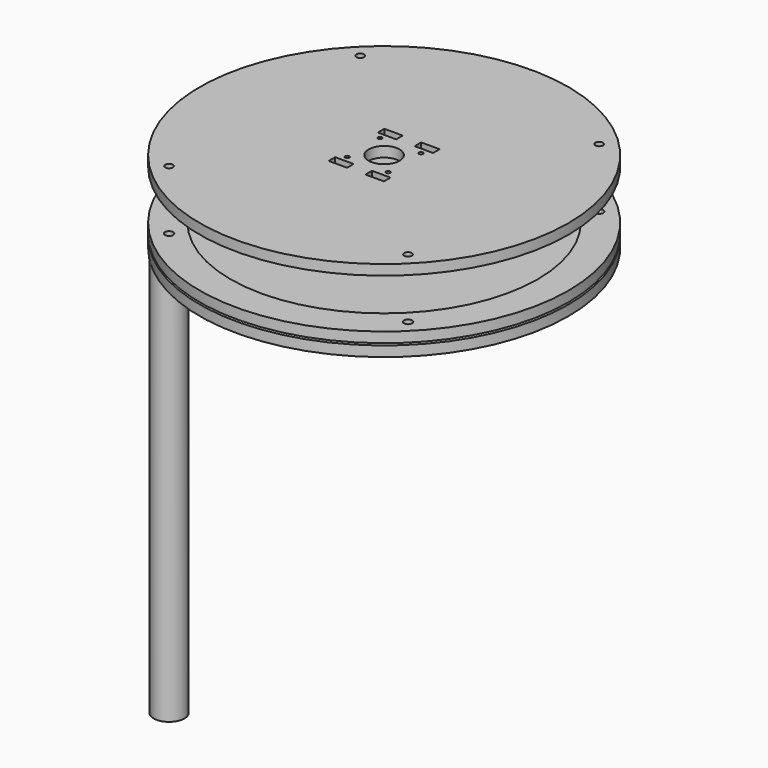
from build123d import *

# Parameters (mm, degrees)
F0_R      = 90
F0_R_2    = 2
F0_R_3    = 75
F1_DEPTH  = 5
F3_R      = 90
F3_R_2    = 2
F3_R_3    = 7.55
F4_DEPTH  = 5
F5_R      = 1
F6_DEPTH  = 5
F7_R      = 7.5
F8_DEPTH  = 195
F11_W     = 9
F11_H     = 4
F12_DEPTH = 5
F13_R     = 2
F13_R_2   = 1.85
F14_DEPTH = 5


with BuildPart() as f1:
    # F0 (on Top) → F1 (new body)
    with BuildSketch(Plane.XY):
        Circle(F0_R)
        with Locations((-58.3363094479, -58.3363094479)):
            Circle(F0_R_2, mode=Mode.SUBTRACT)
        with Locations((58.3363094479, -58.3363094479)):
            Circle(F0_R_2, mode=Mode.SUBTRACT)
        with Locations((-58.3363094479, 58.3363094479)):
            Circle(F0_R_2, mode=Mode.SUBTRACT)
        Circle(F0_R_3, mode=Mode.SUBTRACT)
        with Locations((58.3363094479, 58.3363094479)):
            Circle(F0_R_2, mode=Mode.SUBTRACT)
    extrude(amount=F1_DEPTH)


with BuildPart() as f4:
    # F3 (on offset) → F4 (new body)
    with BuildSketch(Plane(origin=(0, 0, -1), x_dir=(1, 0, 0), z_dir=(0, 0, -1))):
        Circle(F3_R)
        with Locations((-58.3363094479, -58.3363094479)):
            Circle(F3_R_2, mode=Mode.SUBTRACT)
        with Locations((58.3363094479, -58.3363094479)):
            Circle(F3_R_2, mode=Mode.SUBTRACT)
        with Locations((-58.3363094479, 58.3363094479)):
            Circle(F3_R_2, mode=Mode.SUBTRACT)
        Circle(F3_R_3, mode=Mode.SUBTRACT)
        with Locations((58.3363094479, 58.3363094479)):
            Circle(F3_R_2, mode=Mode.SUBTRACT)
    extrude(amount=F4_DEPTH)

    # F5 (on face) → F6 (cut, through all)
    with BuildSketch(Plane.XY.offset(-1)):
        with Locations((-10, 10)):
            Circle(F5_R)
        with Locations((10, 10)):
            Circle(F5_R)
        with Locations((-10, -10)):
            Circle(F5_R)
        with Locations((10, -10)):
            Circle(F5_R)
    extrude(amount=-F6_DEPTH, mode=Mode.SUBTRACT)


with BuildPart() as f8:
    # F7 (on face) → F8 (new body)
    with BuildSketch(Plane(origin=(0, 0, -6), x_dir=(1, 0, 0), z_dir=(0, 0, -1))):
        with Locations((-58.3363094479, 58.3363094479)):
            Circle(F7_R)
    extrude(amount=F8_DEPTH)


with BuildPart() as f10_1:
    # F10: instance of F4
    add(f4.part.mirror(Plane(origin=(0, 0, 14), x_dir=(1, 0, 0), z_dir=(0, 0, -1))))

    # F11 (on face) → F12 (cut, through all)
    with BuildSketch(Plane.XY.offset(34)):
        with Locations((9, -15)):
            Rectangle(F11_W, F11_H)
        with Locations((-9, -15)):
            Rectangle(F11_W, F11_H)
        with Locations((-9, 15)):
            Rectangle(F11_W, F11_H)
        with Locations((9, 15)):
            Rectangle(F11_W, F11_H)
    extrude(amount=-F12_DEPTH, mode=Mode.SUBTRACT)

    # F13 (on face) → F14 (join, through all)
    with BuildSketch(Plane.XY.offset(34)):
        with Locations((-58.3363094479, 58.3363094479)):
            Circle(F13_R)
        with Locations((-58.3363094479, 58.3363094479)):
            Circle(F13_R_2, mode=Mode.SUBTRACT)
        with Locations((-58.3363094479, -58.3363094479)):
            Circle(F13_R)
        with Locations((-58.3363094479, -58.3363094479)):
            Circle(F13_R_2, mode=Mode.SUBTRACT)
        with Locations((58.3363094479, -58.3363094479)):
            Circle(F13_R)
        with Locations((58.3363094479, -58.3363094479)):
            Circle(F13_R_2, mode=Mode.SUBTRACT)
        with Locations((58.3363094479, 58.3363094479)):
            Circle(F13_R)
        with Locations((58.3363094479, 58.3363094479)):
            Circle(F13_R_2, mode=Mode.SUBTRACT)
    extrude(amount=-F14_DEPTH)


solid = Compound([f1.part, f4.part, f8.part, f10_1.part])
